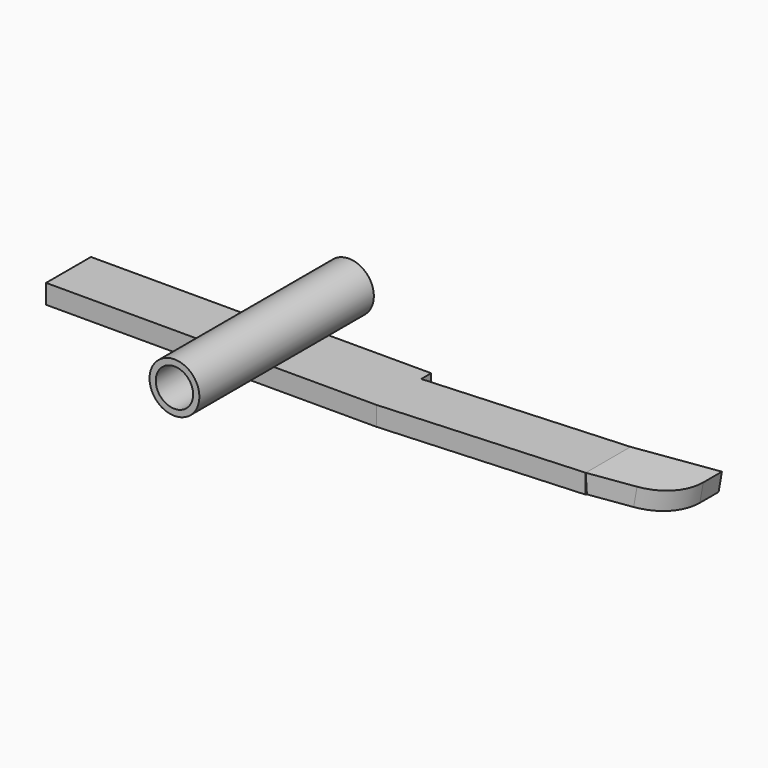
from build123d import *

# Parameters (mm, degrees)
F0_R     = 4
F0_R_2   = 3
F1_DEPTH = 35
F3_W     = 85
F3_H     = 3.1
F4_DEPTH = 11
F5_W     = 34
F5_H     = 2
F6_DEPTH = 3.1
F9_DEPTH = 3.1
F10_R    = 8


with BuildPart() as f1:
    # F0 (on Front) → F1 (new body)
    with BuildSketch(Plane.XZ):
        Circle(F0_R)
        Circle(F0_R_2, mode=Mode.SUBTRACT)
    extrude(amount=F1_DEPTH)

    # F3 (on offset) → F4 (join)
    with BuildSketch(Plane.XZ.offset(17)):
        with Locations((7.5, 5.45)):
            Rectangle(F3_W, F3_H)
    extrude(amount=-F4_DEPTH)

    # F5 (on face) → F6 (cut)
    with BuildSketch(Plane.XY.offset(7)):
        with Locations((-18, -7)):
            Rectangle(F5_W, F5_H)
        Polygon((50, -6), (18, -6), (18, -8), align=None)
        Polygon((50, -15), (18, -17), (50, -17), align=None)
    extrude(amount=-F6_DEPTH, mode=Mode.SUBTRACT)

    # F8 (on face) → F9 (join)
    with BuildSketch(Plane(origin=(0.840745, 0, -4.768103), x_dir=(0.984808, 0, 0.173648), z_dir=(0.173648, 0, -0.984808))):
        Polygon((60.9319, 10.237065), (49.917616, 15), (49.917616, 6), (60.9319, 1.237065), align=None)
    extrude(amount=-F9_DEPTH)

    # F10
    f10_edges = [f1.edges().sort_by_distance(p)[0] for p in [
        (60.577798, -10.237065, 7.339062),
    ]]
    fillet(f10_edges, radius=F10_R)


with BuildPart() as f12_1:
    # F12: instance of F1
    add(f1.part.mirror(Plane.XY.offset(-4)))


solid = f12_1.part
